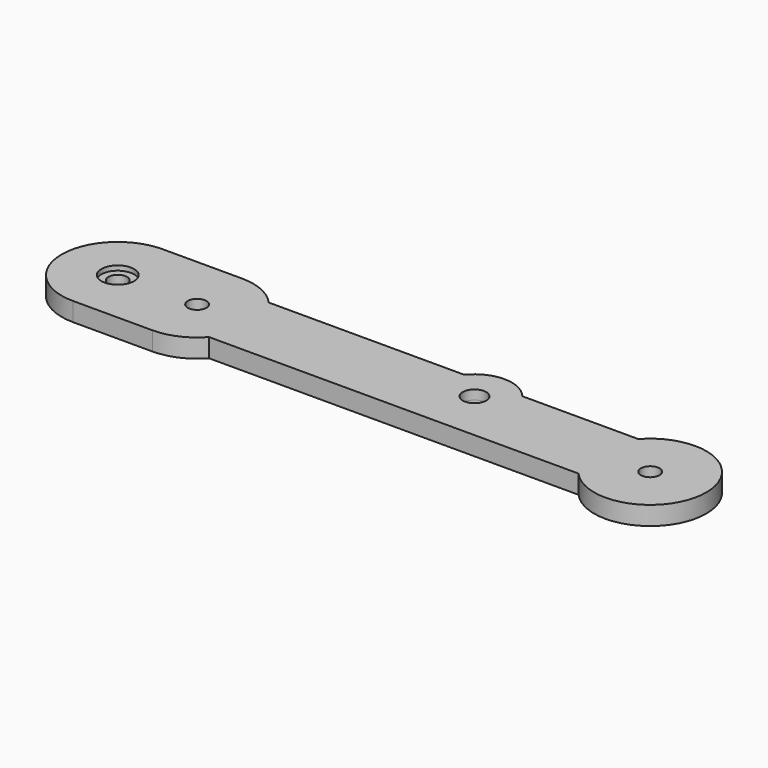
from build123d import *

# Parameters (mm, degrees)
F0_R     = 6.35
F0_R_2   = 7.9375
F1_DEPTH = 6.35
F2_R     = 11.1125
F3_DEPTH = 3.175


with BuildPart() as f1:
    # F0 (on Top) → F1 (new body, symmetric)
    with BuildSketch(Plane.XY):
        with BuildLine():
            ThreePointArc((-120.65, -38.1), (-105.0957401333, -34.7803824016), (-92.2519366858, -25.4))
            ThreePointArc((-92.2519366858, -25.4), (-82.55, 0), (-92.2519366858, 25.4))
            ThreePointArc((-92.2519366858, 25.4), (-105.0957401333, 34.7803824016), (-120.65, 38.1))
            Line((-120.65, 38.1), (-174.625, 38.1))
            ThreePointArc((-174.625, 38.1), (-190.1792598667, 34.7803824016), (-203.0230633142, 25.4))
            ThreePointArc((-203.0230633142, 25.4), (-210.2169668893, 13.5949215867), (-212.725, -7.2e-08))
            ThreePointArc((-212.725, -7.2e-08), (-210.2169668636, -13.594921654), (-203.0230633142, -25.4))
            ThreePointArc((-203.0230633142, -25.4), (-190.1792598667, -34.7803824016), (-174.625, -38.1))
            Line((-174.625, -38.1), (-120.65, -38.1))
        make_face()
        with Locations((-174.625, 0)):
            Circle(F0_R, mode=Mode.SUBTRACT)
        with Locations((-120.65, 0)):
            Circle(F0_R, mode=Mode.SUBTRACT)
        with BuildLine():
            Line((-92.2519366858, -25.4), (158.9269366858, -25.4))
            ThreePointArc((158.9269366858, -25.4), (149.225, 0), (158.9269366858, 25.4))
            Line((158.9269366858, 25.4), (80.0710946124, 25.4))
            ThreePointArc((80.0710946124, 25.4), (84.2698408134, 17.8971594032), (85.725, 9.4234))
            ThreePointArc((85.725, 9.4234), (51.8512405968, -14.5214408134), (40.5789053876, 25.4))
            Line((40.5789053876, 25.4), (-92.2519366858, 25.4))
            ThreePointArc((-92.2519366858, 25.4), (-82.55, 0), (-92.2519366858, -25.4))
        make_face()
        with BuildLine():
            ThreePointArc((158.9269366858, 25.4), (149.225, 0), (158.9269366858, -25.4))
            ThreePointArc((158.9269366858, -25.4), (200.9199216204, -35.5919668765), (225.425, 0))
            ThreePointArc((225.425, 0), (200.9199216204, 35.5919668765), (158.9269366858, 25.4))
        make_face()
        with Locations((187.325, 0)):
            Circle(F0_R, mode=Mode.SUBTRACT)
        with BuildLine():
            ThreePointArc((85.725, 9.4234), (84.2698408134, 17.8971594032), (80.0710946124, 25.4))
            Line((80.0710946124, 25.4), (40.5789053876, 25.4))
            ThreePointArc((40.5789053876, 25.4), (51.8512405968, -14.5214408134), (85.725, 9.4234))
        make_face()
        with Locations((60.325, 9.4234)):
            Circle(F0_R_2, mode=Mode.SUBTRACT)
        with BuildLine():
            Line((40.5789053876, 25.4), (80.0710946124, 25.4))
            ThreePointArc((80.0710946124, 25.4), (60.325, 34.8234), (40.5789053876, 25.4))
        make_face()
    extrude(amount=F1_DEPTH, both=True)

    # F2 (on face) → F3 (cut)
    with BuildSketch(Plane.XY.offset(6.35)):
        with Locations((-174.625, 0)):
            Circle(F2_R)
    extrude(amount=-F3_DEPTH, mode=Mode.SUBTRACT)


solid = f1.part
